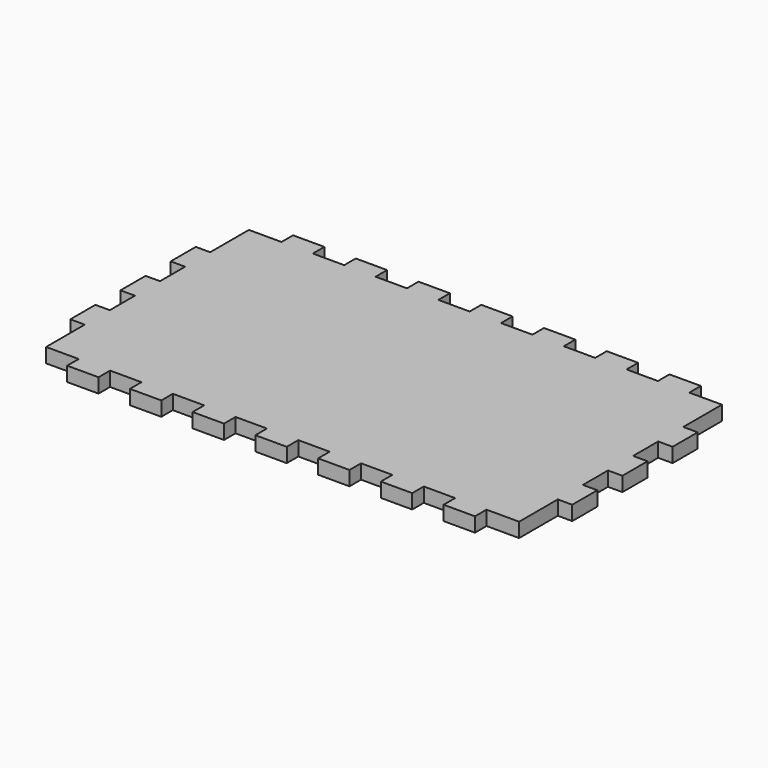
from build123d import *

# Parameters (mm, degrees)
F1_DEPTH = 5.842


with BuildPart() as f1:
    # F0 (on Top) → F1 (new body)
    with BuildSketch(Plane.XY):
        Polygon((31.75, 0), (19.05, 0), (19.05, -5.842), (5.842, -5.842), (5.842, -25.4), (0, -25.4), (0, -38.1), (5.842, -38.1), (5.842, -50.8), (0, -50.8), (0, -63.5), (5.842, -63.5), (5.842, -76.2), (0, -76.2), (0, -88.9), (5.842, -88.9), (5.842, -108.458), (19.05, -108.458), (19.05, -114.3), (31.75, -114.3), (31.75, -108.458), (44.45, -108.458), (44.45, -114.3), (57.15, -114.3), (57.15, -108.458), (69.85, -108.458), (69.85, -114.3), (82.55, -114.3), (82.55, -108.458), (95.25, -108.458), (95.25, -114.3), (107.95, -114.3), (107.95, -108.458), (120.65, -108.458), (120.65, -114.3), (133.35, -114.3), (133.35, -108.458), (146.05, -108.458), (146.05, -114.3), (158.75, -114.3), (158.75, -108.458), (171.45, -108.458), (171.45, -114.3), (184.15, -114.3), (184.15, -108.458), (197.358, -108.458), (197.358, -88.9), (203.2, -88.9), (203.2, -76.2), (197.358, -76.2), (197.358, -63.5), (203.2, -63.5), (203.2, -50.8), (197.358, -50.8), (197.358, -38.1), (203.2, -38.1), (203.2, -25.4), (197.358, -25.4), (197.358, -5.842), (184.15, -5.842), (184.15, 0), (171.45, 0), (171.45, -5.842), (158.75, -5.842), (158.75, 0), (146.05, 0), (146.05, -5.842), (133.35, -5.842), (133.35, 0), (120.65, 0), (120.65, -5.842), (107.95, -5.842), (107.95, 0), (95.25, 0), (95.25, -5.842), (82.55, -5.842), (82.55, 0), (69.85, 0), (69.85, -5.842), (57.15, -5.842), (57.15, 0), (44.45, 0), (44.45, -5.842), (31.75, -5.842), align=None)
    extrude(amount=F1_DEPTH)


solid = f1.part
